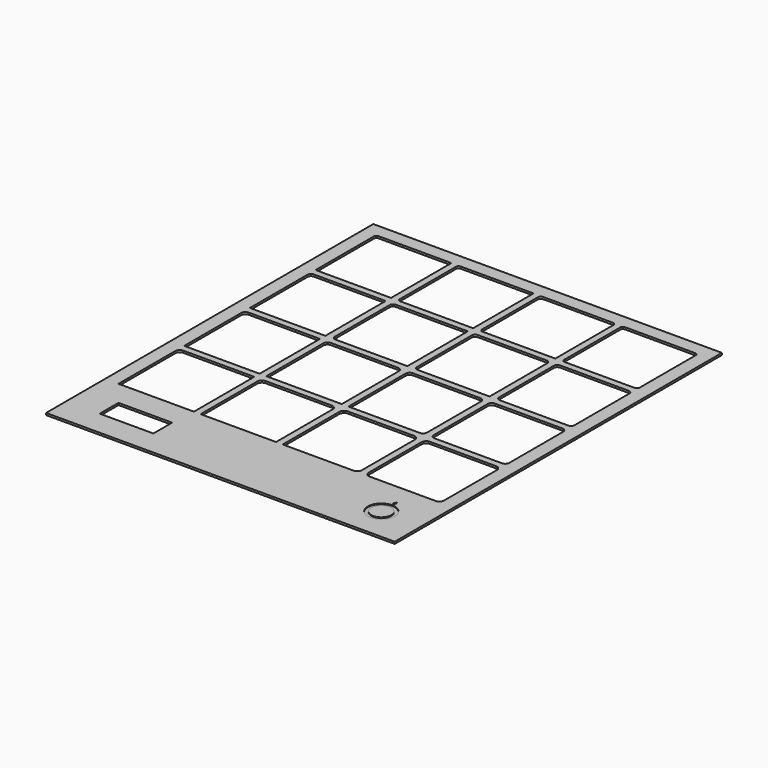
from build123d import *

# Parameters (mm, degrees)
SKETCH_W                     = 520
SKETCH_H                     = 610
PAD_DEPTH                    = 3
SKETCH001_W                  = 112.5
SKETCH001_H                  = 112.5
POCKET_DEPTH                 = 5
SKETCH001_LINEARPATTERN_2_W  = 112.5
SKETCH001_LINEARPATTERN_2_H  = 112.5
POCKET_LINEARPATTERN_2_DEPTH = 5
SKETCH001_LINEARPATTERN_3_W  = 112.5
SKETCH001_LINEARPATTERN_3_H  = 112.5
POCKET_LINEARPATTERN_3_DEPTH = 5
SKETCH001_LINEARPATTERN_4_W  = 112.5
SKETCH001_LINEARPATTERN_4_H  = 112.5
POCKET_LINEARPATTERN_4_DEPTH = 5
LINEARPATTERN001_COUNT       = 4
LINEARPATTERN001_PITCH       = 122.5
FILLET_R                     = 4
FILLET001_R                  = 5
FILLET002_R                  = 6
FILLET003_R                  = 7
SKETCH002_R                  = 20
SKETCH002_R_2                = 15
POCKET001_DEPTH              = 1
SKETCH003_W                  = 80
SKETCH003_H                  = 35
POCKET002_DEPTH              = 5


with BuildPart() as part:
    # Sketch → Pad (new body)
    with BuildSketch(Plane.XY):
        with Locations((0, -45)):
            Rectangle(SKETCH_W, SKETCH_H)
    extrude(amount=-PAD_DEPTH)

    # Sketch001 (on Face5 of Pad) → Pocket (cut)
    with BuildSketch(Plane.XY):
        with Locations((-183.75, 183.75)):
            Rectangle(SKETCH001_W, SKETCH001_H)
    pocket = extrude(amount=-POCKET_DEPTH, mode=Mode.SUBTRACT)

    # Sketch001 LinearPattern 2 → Pocket LinearPattern 2 (cut)
    with BuildSketch(Plane(origin=(122.5, 0, 0), x_dir=(1, 0, 0), z_dir=(0, 0, 1))):
        with Locations((-183.75, 183.75)):
            Rectangle(SKETCH001_LINEARPATTERN_2_W, SKETCH001_LINEARPATTERN_2_H)
    pocket_linearpattern_2 = extrude(amount=-POCKET_LINEARPATTERN_2_DEPTH, mode=Mode.SUBTRACT)

    # Sketch001 LinearPattern 3 → Pocket LinearPattern 3 (cut)
    with BuildSketch(Plane(origin=(245, 0, 0), x_dir=(1, 0, 0), z_dir=(0, 0, 1))):
        with Locations((-183.75, 183.75)):
            Rectangle(SKETCH001_LINEARPATTERN_3_W, SKETCH001_LINEARPATTERN_3_H)
    pocket_linearpattern_3 = extrude(amount=-POCKET_LINEARPATTERN_3_DEPTH, mode=Mode.SUBTRACT)

    # Sketch001 LinearPattern 4 → Pocket LinearPattern 4 (cut)
    with BuildSketch(Plane(origin=(367.5, 0, 0), x_dir=(1, 0, 0), z_dir=(0, 0, 1))):
        with Locations((-183.75, 183.75)):
            Rectangle(SKETCH001_LINEARPATTERN_4_W, SKETCH001_LINEARPATTERN_4_H)
    pocket_linearpattern_4 = extrude(amount=-POCKET_LINEARPATTERN_4_DEPTH, mode=Mode.SUBTRACT)

    # LinearPattern001: Pocket, Pocket LinearPattern 2, Pocket LinearPattern 3, Pocket LinearPattern 4 ×4
    with Locations(*[(0, -i * LINEARPATTERN001_PITCH, 0) for i in range(1, LINEARPATTERN001_COUNT)]):
        add(pocket, mode=Mode.SUBTRACT)
        add(pocket_linearpattern_2, mode=Mode.SUBTRACT)
        add(pocket_linearpattern_3, mode=Mode.SUBTRACT)
        add(pocket_linearpattern_4, mode=Mode.SUBTRACT)

    # Fillet
    fillet_edges = [part.edges().sort_by_distance(p)[0] for p in [
        (-240, 240, -1.5),
        (-117.5, 240, -1.5),
        (-117.5, 127.5, -1.5),
        (5, 240, -1.5),
        (117.5, 240, -1.5),
        (5, 127.5, -1.5),
        (127.5, 127.5, -1.5),
        (127.5, 240, -1.5),
        (240, 240, -1.5),
        (240, 127.5, -1.5),
    ]]
    fillet(fillet_edges, radius=FILLET_R)

    # Fillet001
    fillet001_edges = [part.edges().sort_by_distance(p)[0] for p in [
        (-240, 117.5, -1.5),
        (-117.5, 117.5, -1.5),
        (5, 117.5, -1.5),
        (127.5, 117.5, -1.5),
        (240, 117.5, -1.5),
        (240, 5, -1.5),
        (127.5, 5, -1.5),
        (117.5, 117.5, -1.5),
        (5, 5, -1.5),
        (-117.5, 5, -1.5),
    ]]
    fillet(fillet001_edges, radius=FILLET001_R)

    # Fillet002
    fillet002_edges = [part.edges().sort_by_distance(p)[0] for p in [
        (-240, -5, -1.5),
        (-117.5, -5, -1.5),
        (5, -5, -1.5),
        (127.5, -5, -1.5),
        (240, -5, -1.5),
        (240, -117.5, -1.5),
        (127.5, -117.5, -1.5),
        (117.5, -5, -1.5),
        (117.5, -117.5, -1.5),
        (-5, -5, -1.5),
    ]]
    fillet(fillet002_edges, radius=FILLET002_R)

    # Fillet003
    fillet003_edges = [part.edges().sort_by_distance(p)[0] for p in [
        (-240, -127.5, -1.5),
        (-117.5, -127.5, -1.5),
        (5, -127.5, -1.5),
        (127.5, -127.5, -1.5),
        (240, -127.5, -1.5),
        (240, -240, -1.5),
        (127.5, -240, -1.5),
        (117.5, -127.5, -1.5),
        (117.5, -240, -1.5),
        (-5, -127.5, -1.5),
    ]]
    fillet(fillet003_edges, radius=FILLET003_R)

    # Sketch002 (on Face1 of Fillet003) → Pocket001 (cut)
    with BuildSketch(Plane.XY):
        with Locations((200, -300)):
            Circle(SKETCH002_R)
        with Locations((200, -300)):
            Circle(SKETCH002_R_2, mode=Mode.SUBTRACT)
        Polygon((200.37776, -271.535898), (197.37776, -276.732051), (203.37776, -276.732051), align=None)
    extrude(amount=-POCKET001_DEPTH, mode=Mode.SUBTRACT)

    # Sketch003 (on Face1 of Pocket001) → Pocket002 (cut)
    with BuildSketch(Plane.XY):
        with Locations((-170, -295)):
            Rectangle(SKETCH003_W, SKETCH003_H)
    extrude(amount=-POCKET002_DEPTH, mode=Mode.SUBTRACT)


with BuildPart() as part_1:
    # Clone001 placement: moved
    add(part.part.moved(Location((-265, 355, 0))))


solid = part_1.part
